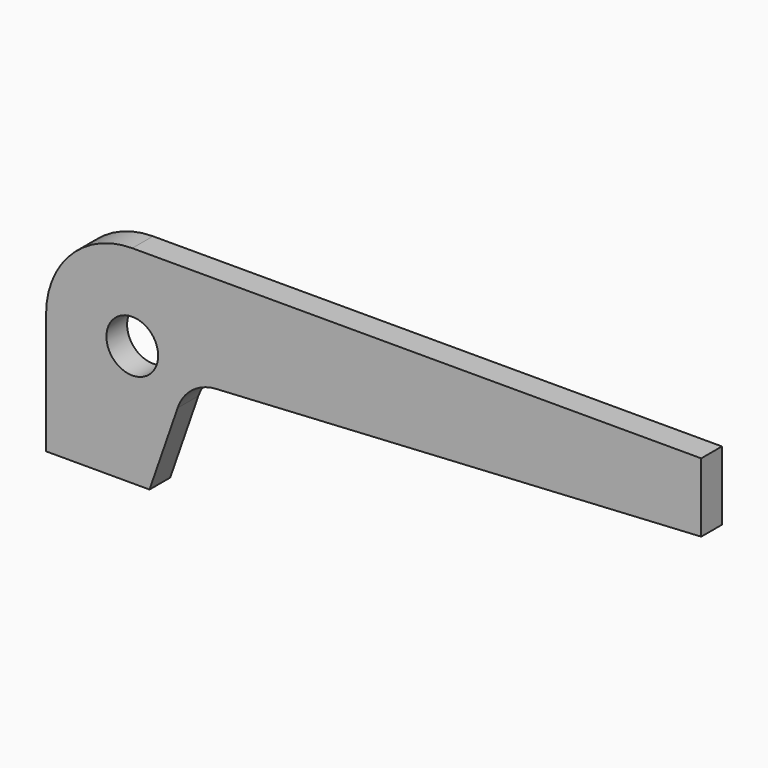
from build123d import *

# Parameters (mm, degrees)
F1_DEPTH = 2.38125
F2_R     = 2.38125
F3_DEPTH = 2.38225


with BuildPart() as f1:
    # F0 (on Front) → F1 (new body)
    with BuildSketch(Plane.XZ):
        with BuildLine():
            Line((60.325, 19.05), (7.9375, 19.05))
            ThreePointArc((7.9375, 19.05), (2.32484, 16.72516), (0, 11.1125))
            Line((0, 11.1125), (0, 0))
            Line((0, 0), (9.525, 0))
            Line((9.525, 0), (12.113446, 7.456829))
            ThreePointArc((12.113446, 7.456829), (13.468148, 9.346886), (15.649156, 10.153569))
            Line((15.649156, 10.153569), (60.325, 12.7))
            Line((60.325, 12.7), (60.325, 19.05))
        make_face()
    extrude(amount=F1_DEPTH)

    # F2 (on face) → F3 (cut, through all)
    with BuildSketch(Plane.XZ.offset(2.38125)):
        with Locations((7.9375, 11.1125)):
            Circle(F2_R)
    extrude(amount=-F3_DEPTH, mode=Mode.SUBTRACT)


solid = f1.part
